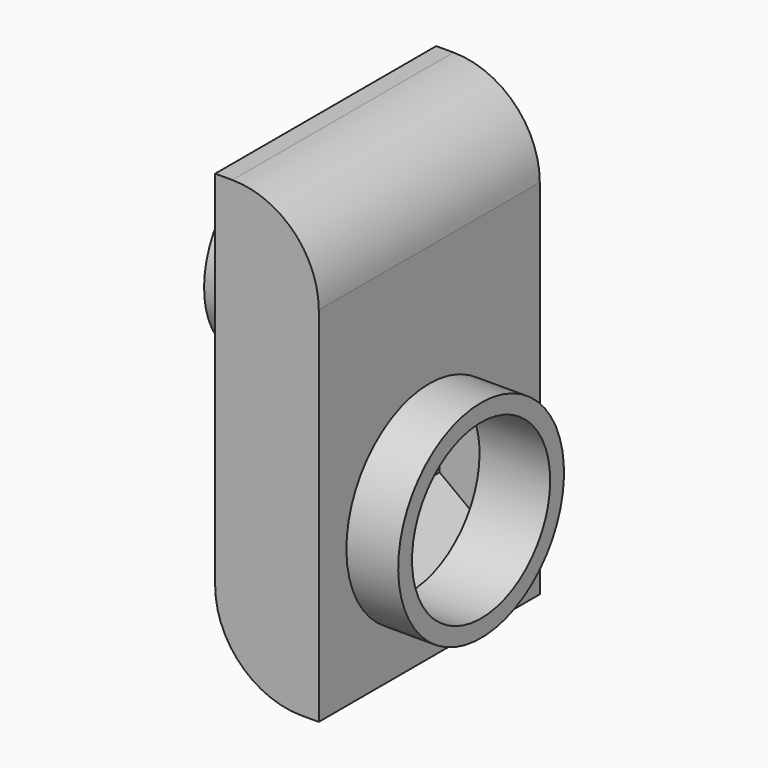
from build123d import *

# Parameters (mm, degrees)
F4_DEPTH  = 80
F7_DEPTH  = 30
F8_DEPTH  = 30
F9_DEPTH  = 70
F10_R     = 25
F11_DEPTH = 25
F12_R     = 20
F13_DEPTH = 30


with BuildPart() as f4:
    # F2 (on Front) → F4 (new body)
    with BuildSketch(Plane.XZ):
        with BuildLine():
            ThreePointArc((-15, 25), (-7.6776695297, 7.3223304703), (10, 0))
            Line((10, 0), (15, 0))
            Line((15, 0), (15, 105))
            ThreePointArc((15, 105), (7.6776695297, 122.6776695297), (-10, 130))
            Line((-10, 130), (-15, 130))
            Line((-15, 130), (-15, 25))
        make_face()
    extrude(amount=F4_DEPTH)

    # F3 (on Right) → F7 (join)
    with BuildSketch(Plane.YZ):
        with BuildLine():
            ThreePointArc((-51.4712392712, 67.720221312), (-40.1317472353, 65.0673444738), (-28.8207664845, 67.8392661183))
            ThreePointArc((-28.8207664845, 67.8392661183), (-40.1576697714, 69.9995856679), (-51.4712392712, 67.720221312))
        make_face()
        with BuildLine():
            ThreePointArc((-51.4712392712, 67.720221312), (-56.6712750242, 15.0586971257), (-10, 40))
            ThreePointArc((-10, 40), (-15.1466601292, 56.8021277601), (-28.8207664845, 67.8392661183))
            ThreePointArc((-28.8207664845, 67.8392661183), (-40.1317472353, 65.0673444738), (-51.4712392712, 67.720221312))
        make_face()
    extrude(amount=F7_DEPTH)

    # F3 (on Right) → F8 (join)
    with BuildSketch(Plane.YZ):
        with BuildLine():
            ThreePointArc((-51.4712392712, 67.720221312), (-40.1317472353, 65.0673444738), (-28.8207664845, 67.8392661183))
            ThreePointArc((-28.8207664845, 67.8392661183), (-40.1576697714, 69.9995856679), (-51.4712392712, 67.720221312))
        make_face()
        with BuildLine():
            ThreePointArc((-51.4712392712, 67.720221312), (-40.1576697714, 69.9995856679), (-28.8207664845, 67.8392661183))
            ThreePointArc((-28.8207664845, 67.8392661183), (-18.9199980607, 77.0489214909), (-15.2631387115, 90.066999197))
            ThreePointArc((-15.2631387115, 90.066999197), (-53.3932088942, 111.3414264983), (-51.4712392712, 67.720221312))
        make_face()
    extrude(amount=-F8_DEPTH)

    # F6 (on offset) → F9 (cut)
    with BuildSketch(Plane.XZ.offset(5)):
        Polygon((9.3415956944, 10.482782498), (10, 105), (-9.4214295968, 113.332554698), (-10, 25), align=None)
    extrude(amount=F9_DEPTH, mode=Mode.SUBTRACT)

    # F10 (on face) → F11 (cut)
    with BuildSketch(Plane.YZ.offset(30)):
        with Locations((-40, 40)):
            Circle(F10_R)
    extrude(amount=-F11_DEPTH, mode=Mode.SUBTRACT)

    # F12 (on face) → F13 (cut)
    with BuildSketch(Plane(origin=(-30, 0, 0), x_dir=(0, -1, 0), z_dir=(-1, 0, 0))):
        with Locations((40.2631387115, 90.066999197)):
            Circle(F12_R)
    extrude(amount=-F13_DEPTH, mode=Mode.SUBTRACT)


solid = f4.part
